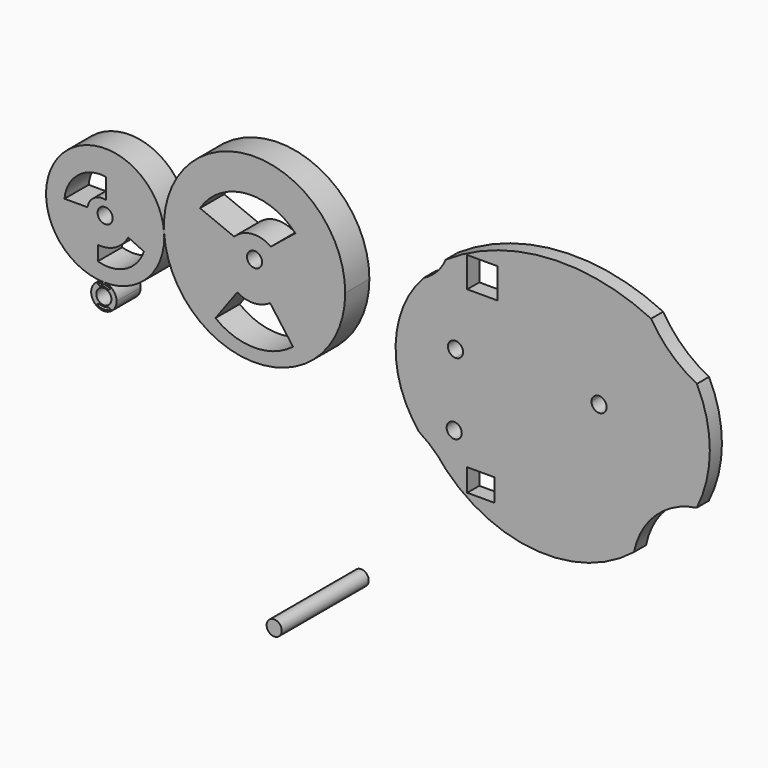
from build123d import *

# Parameters (mm, degrees)
F0_R     = 1.5875
F1_DEPTH = 6.35
F0_W     = 5.6992975482
F0_H     = 4.7241855249
F0_W_2   = 6.35
F0_H_2   = 6.35
F2_DEPTH = 3.175
F3_DEPTH = 22.86


with BuildPart() as f1:
    # F0 (on Front) → F1 (new body)
    with BuildSketch(Plane.XZ):
        with BuildLine():
            ThreePointArc((-67.3585994082, 12.2497619586), (-47.7167899216, -5.5223650535), (-29.3008009861, 13.5170816288))
            ThreePointArc((-29.3008009861, 13.5170816289), (-48.9848120507, 32.5565283112), (-67.3585994082, 12.2497619586))
        make_face()
        with BuildLine():
            Line((-56.5712973475, 0), (-51.9921034575, 6.2635407752))
            ThreePointArc((-51.9921034575, 6.2635407752), (-48.5019898602, 5.3787178579), (-45.0852625072, 6.5144021064))
            Line((-45.0852625072, 6.5144021064), (-40.272153914, 0))
            ThreePointArc((-40.272153914, 0), (-48.4217256308, -2.8116386768), (-56.5712973475, 0))
        make_face(mode=Mode.SUBTRACT)
        with Locations((-48.3508009861, 13.5170816289)):
            Circle(F0_R, mode=Mode.SUBTRACT)
        with BuildLine():
            Line((-52.6470765471, 16.3498036563), (-59.8185919225, 19.2743316293))
            ThreePointArc((-59.8185919225, 19.2743316293), (-50.2635926632, 25.1457315984), (-39.7862121463, 21.1462508887))
            Line((-39.7862121463, 21.1462508887), (-44.9106283486, 17.0165207237))
            ThreePointArc((-44.9106283486, 17.0165207237), (-48.8986942592, 18.0737820053), (-52.6470765471, 16.3498036563))
        make_face(mode=Mode.SUBTRACT)
    extrude(amount=F1_DEPTH)


with BuildPart() as f1b:
    # F0 (on Front) → F1, piece 2 (new body)
    with BuildSketch(Plane.XZ):
        with BuildLine():
            ThreePointArc((-67.3310839693, 11.423469383), (-67.337964735, 11.8368446725), (-67.3585994082, 12.2497619586))
            ThreePointArc((-67.3585994082, 12.2497619586), (-88.7453012362, 19.9900412071), (-79.9745823175, -0.9951304046))
            ThreePointArc((-79.9745823175, -0.9951304046), (-71.0481567207, 2.562322855), (-67.3310839693, 11.423469383))
        make_face()
        with BuildLine():
            Line((-81.2733918428, 2.4807630107), (-81.2733918428, 5.5222734809))
            ThreePointArc((-81.2733918428, 5.5222734809), (-77.5641064708, 6.2635407752), (-74.9084055424, 8.9571494609))
            Line((-74.9084055424, 8.9571494609), (-71.5991035104, 7.4266553856))
            ThreePointArc((-71.5991035104, 7.4266553856), (-75.4399710481, 3.004967367), (-81.2733918428, 2.4807630107))
        make_face(mode=Mode.SUBTRACT)
        with Locations((-79.7516839693, 11.423469383)):
            Circle(F0_R, mode=Mode.SUBTRACT)
        with BuildLine():
            Line((-83.4595635533, 11.7629636079), (-88.2952660322, 11.7629636079))
            ThreePointArc((-88.2952660322, 11.7629636079), (-85.4232493823, 17.0805786516), (-79.5853286982, 18.6439696699))
            Line((-79.5853286982, 18.6439696699), (-79.5853286982, 14.361333102))
            ThreePointArc((-79.5853286982, 14.361333102), (-82.0937953984, 13.9140446197), (-83.4595635533, 11.7629636079))
        make_face(mode=Mode.SUBTRACT)
    extrude(amount=F1_DEPTH)


with BuildPart() as f1c:
    # F0 (on Front) → F1, piece 3 (new body)
    with BuildSketch(Plane.XZ):
        with BuildLine():
            ThreePointArc((-77.3554439497, -3.6617009108), (-78.1197437667, -1.792845375), (-79.9745823175, -0.9951304046))
            ThreePointArc((-79.9745823175, -0.9951304046), (-81.9251441328, -5.5305564465), (-77.3554439497, -3.6617009108))
        make_face()
        with BuildLine():
            Line((-81.5068259835, -5.5508497171), (-81.0334607959, -5.3159161471))
            ThreePointArc((-81.0334607959, -5.3159161471), (-80.0334453121, -5.5187104426), (-79.0372937918, -5.2977157757))
            Line((-79.0372937918, -5.2977157757), (-78.5414129496, -5.6172092445))
            ThreePointArc((-78.5414129496, -5.6172092445), (-80.0339176232, -6.0218804194), (-81.5068259835, -5.5508497171))
        make_face(mode=Mode.SUBTRACT)
        with Locations((-80.0224439497, -3.6617009108)):
            Circle(F0_R, mode=Mode.SUBTRACT)
        with BuildLine():
            Line((-80.8590352535, -2.0147818141), (-81.3467651606, -1.6953132581))
            ThreePointArc((-81.3467651606, -1.6953132581), (-79.979023866, -1.3814665574), (-78.6257460713, -1.752755139))
            Line((-78.6257460713, -1.752755139), (-79.0260359645, -2.0612876397))
            ThreePointArc((-79.0260359645, -2.0612876397), (-79.9376072444, -1.8437861853), (-80.8590352535, -2.0147818141))
        make_face(mode=Mode.SUBTRACT)
    extrude(amount=F1_DEPTH)


with BuildPart() as f2:
    # F0 (on Front) → F2 (new body)
    with BuildSketch(Plane.XZ):
        with BuildLine():
            ThreePointArc((-16.336656812, -9.2380635097), (-13.2402074156, -11.5790459327), (-10.621478104, -14.4444349746))
            ThreePointArc((-10.621478104, -14.4444349746), (8.6585009426, -23.2264616755), (28.849388551, -16.8101042509))
            ThreePointArc((28.849388551, -16.8101042509), (33.4595478462, -8.4807166781), (42.0227806245, -4.3209918733))
            ThreePointArc((42.0227806245, -4.3209918733), (44.7871177092, 7.1458658353), (42.0750837904, 18.6252062889))
            ThreePointArc((42.0750837904, 18.6252062889), (36.6327610513, 22.4112446581), (32.4451126099, 27.5509493053))
            ThreePointArc((32.4451126099, 27.5509493053), (10.4566000096, 31.7261104258), (-10.7079961448, 24.4469259678))
            ThreePointArc((-10.7079961448, 24.4469259678), (-12.6105462262, 21.574072454), (-15.3801280942, 19.5240967466))
            ThreePointArc((-15.3801280942, 19.5240967466), (-21.2439973275, 5.3221229748), (-16.336656812, -9.2380635097))
        make_face()
        with BuildLine():
            ThreePointArc((-4.9677237983, -6.5777782366), (-11.76787287, -9.3588132704), (-8.8652511603, -2.6096673639))
            ThreePointArc((-8.8652511603, -2.6096673639), (-6.1050747266, -3.7967432029), (-4.9677237983, -6.5777782366))
        make_face(mode=Mode.SUBTRACT)
        with Locations((-3.3481849043, -14.8623904295)):
            Rectangle(F0_W, F0_H, mode=Mode.SUBTRACT)
        with BuildLine():
            ThreePointArc((0.0655361821, 8.5073920572), (0.0653697487, 8.4534817934), (0.0648704546, 8.3995735849))
            ThreePointArc((0.0648704546, 8.3995735849), (-2.5860142121, 2.2406561232), (-8.8224036214, -0.2224518629))
            ThreePointArc((-8.8224036214, -0.2224518629), (-14.7839908922, 14.736470015), (0.0655361821, 8.5073920572))
        make_face(mode=Mode.SUBTRACT)
        with BuildLine():
            ThreePointArc((3.2586769194, 8.3601316274), (21.6198676811, 26.3843235408), (39.7570854279, 8.134771417))
            ThreePointArc((39.7570854279, 8.134771417), (21.3945031748, -10.1147807068), (3.2586769194, 8.3601316274))
        make_face(mode=Mode.SUBTRACT)
        with Locations((-3.0228336784, 23.5873528674)):
            Rectangle(F0_W_2, F0_H_2, mode=Mode.SUBTRACT)
        with BuildLine():
            ThreePointArc((3.2586769194, 8.3601316274), (21.3945031748, -10.1147807068), (39.7570854279, 8.134771417))
            ThreePointArc((39.7570854279, 8.134771417), (21.6198676811, 26.3843235408), (3.2586769194, 8.3601316274))
        make_face()
        with BuildLine():
            ThreePointArc((23.0946854279, 8.134771417), (21.4973835618, 6.5473016776), (19.9198064693, 8.1543747756))
            ThreePointArc((19.9198064693, 8.1543747756), (21.5169872941, 9.7222411564), (23.0946854279, 8.134771417))
        make_face(mode=Mode.SUBTRACT)
        with BuildLine():
            Line((-7.0783348592, 8.4877886986), (0.0648704546, 8.3995735849))
            ThreePointArc((0.0648704546, 8.3995735849), (0.0653697487, 8.4534817934), (0.0655361821, 8.5073920572))
            ThreePointArc((0.0655361821, 8.5073920572), (-14.7839908922, 14.736470015), (-8.8224036214, -0.2224518629))
            Line((-8.8224036214, -0.2224518629), (-8.6942028731, 6.9201477081))
            ThreePointArc((-8.6942028731, 6.9201477081), (-9.7781278314, 9.6399516859), (-7.0782138179, 8.5073920572))
            ThreePointArc((-7.0782138179, 8.5073920572), (-7.0782440785, 8.497590191), (-7.0783348592, 8.4877886986))
        make_face()
        with BuildLine():
            ThreePointArc((-8.8224036214, -0.2224518629), (-2.5860142121, 2.2406561232), (0.0648704546, 8.3995735849))
            Line((0.0648704546, 8.3995735849), (-7.0783348592, 8.4877886986))
            ThreePointArc((-7.0783348592, 8.4877886986), (-7.5603138895, 7.3679855237), (-8.6942028731, 6.9201477081))
            Line((-8.6942028731, 6.9201477081), (-8.8224036214, -0.2224518629))
        make_face()
        with BuildLine():
            ThreePointArc((-4.9677237983, -6.5777782366), (-6.1050747266, -3.7967432029), (-8.8652511603, -2.6096673639))
            ThreePointArc((-8.8652511603, -2.6096673639), (-11.76787287, -9.3588132704), (-4.9677237983, -6.5777782366))
        make_face()
        with BuildLine():
            ThreePointArc((-7.3489737983, -6.5777782366), (-10.069033427, -7.6901922502), (-8.9079847431, -4.9905338875))
            ThreePointArc((-8.9079847431, -4.9905338875), (-7.8039141696, -5.4653642231), (-7.3489737983, -6.5777782366))
        make_face(mode=Mode.SUBTRACT)
    extrude(amount=F2_DEPTH)


with BuildPart() as f3:
    # F0 (on Front) → F3 (new body)
    with BuildSketch(Plane.XZ):
        with Locations((-31.0214497149, -42.3045940697)):
            Circle(F0_R)
    extrude(amount=F3_DEPTH)


solid = Compound([f1.part, f1b.part, f1c.part, f2.part, f3.part])
